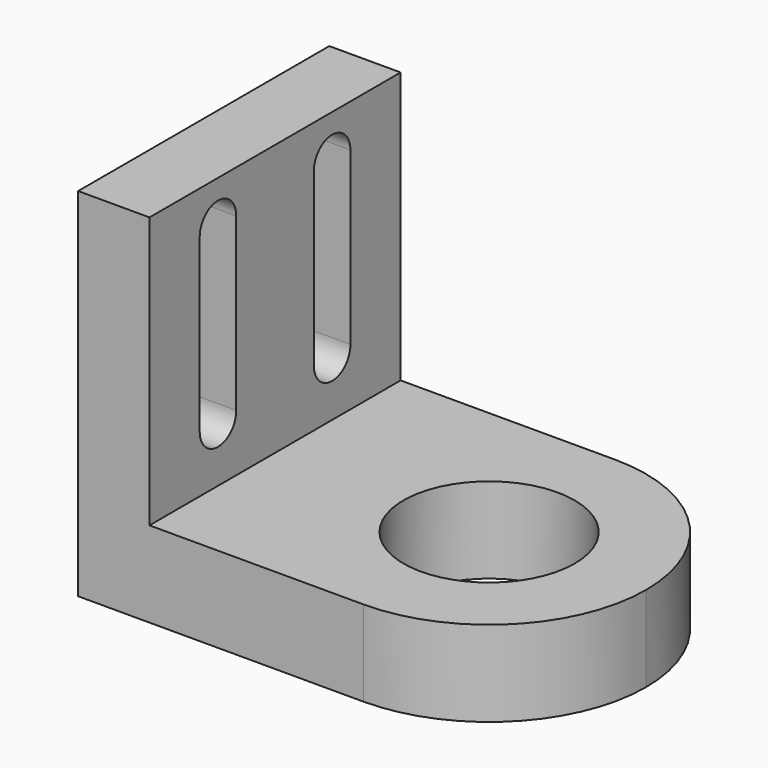
from build123d import *

# Parameters (mm, degrees)
F0_R     = 6
F1_DEPTH = 6
F2_W     = 22
F2_H     = 19
F2_H_2   = 6
F3_DEPTH = 5


with BuildPart() as f1:
    # F0 (on Top) → F1 (new body)
    with BuildSketch(Plane.XY):
        with BuildLine():
            ThreePointArc((0, -11), (-11, 0), (0, 11))
            Line((0, 11), (-15, 11))
            Line((-15, 11), (-15, -11))
            Line((-15, -11), (0, -11))
        make_face()
        with BuildLine():
            ThreePointArc((0, -11), (7.778175, -7.778175), (11, 0))
            ThreePointArc((11, 0), (7.778175, 7.778175), (0, 11))
            ThreePointArc((0, 11), (-11, 0), (0, -11))
        make_face()
        Circle(F0_R, mode=Mode.SUBTRACT)
    extrude(amount=F1_DEPTH)

    # F2 (on face) → F3 (join)
    with BuildSketch(Plane(origin=(-15, 0, 0), x_dir=(0, -1, 0), z_dir=(-1, 0, 0))):
        with Locations((0, 15.5)):
            Rectangle(F2_W, F2_H)
        with BuildLine():
            Line((-3.4, 22), (-3.4, 10))
            ThreePointArc((-3.4, 10), (-5, 8.4), (-6.6, 10))
            Line((-6.6, 10), (-6.6, 22))
            ThreePointArc((-6.6, 22), (-5, 23.6), (-3.4, 22))
        make_face(mode=Mode.SUBTRACT)
        with BuildLine():
            Line((6.6, 22), (6.6, 10))
            ThreePointArc((6.6, 10), (5, 8.4), (3.4, 10))
            Line((3.4, 10), (3.4, 22))
            ThreePointArc((3.4, 22), (5, 23.6), (6.6, 22))
        make_face(mode=Mode.SUBTRACT)
        with Locations((0, 3)):
            Rectangle(F2_W, F2_H_2)
    extrude(amount=F3_DEPTH)


solid = f1.part
